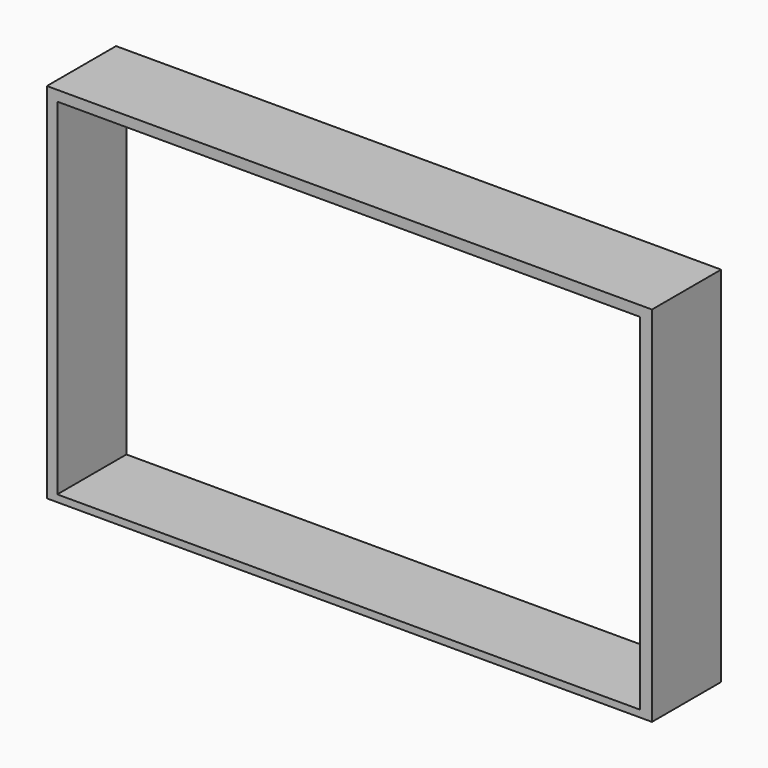
from build123d import *

# Parameters (mm, degrees)
F0_W     = 4445
F0_H     = 2667
F1_DEPTH = 635


with BuildPart() as f1:
    # F0 (on Front) → F1 (new body)
    with BuildSketch(Plane.XZ):
        Rectangle(F0_W, F0_H)
        Polygon((-1892.3, 1257.3), (596.9, 1257.3), (2006.6, 1257.3), (2133.6, 1257.3), (2133.6, -1282.7), (-2146.3, -1282.7), (-2146.3, 1257.3), align=None, mode=Mode.SUBTRACT)
    extrude(amount=F1_DEPTH)


solid = f1.part
